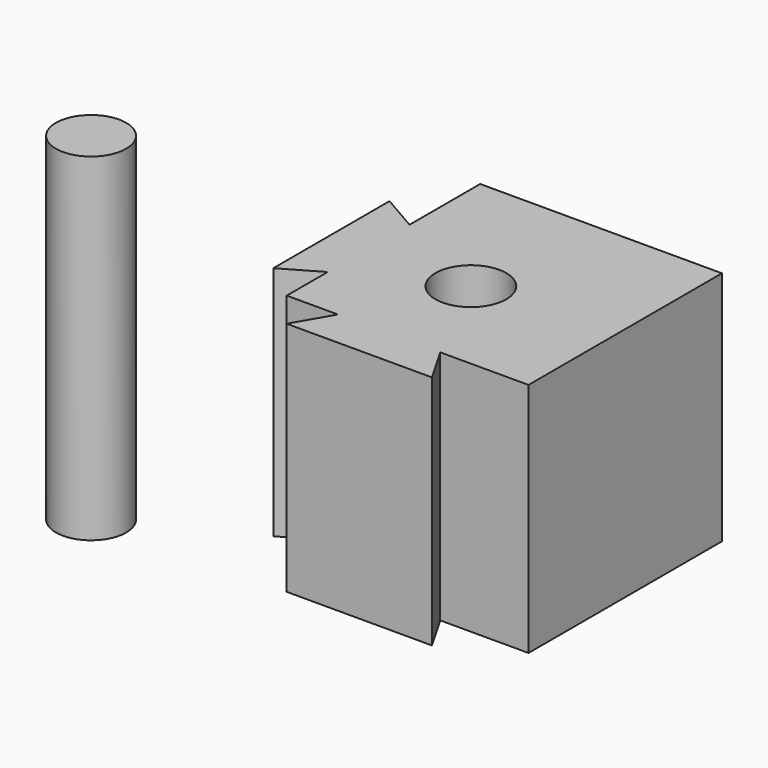
from build123d import *

# Parameters (mm, degrees)
F0_W     = 82.55
F0_H     = 82.55
F1_DEPTH = 69.85
F3_DEPTH = 69.85
F4_D     = 21
F5_R     = 10.4
F6_DEPTH = 100


with BuildPart() as f1:
    # F0 (on Top) → F1 (new body)
    with BuildSketch(Plane.XY):
        with Locations((41.275, 41.275)):
            Rectangle(F0_W, F0_H)
    extrude(amount=F1_DEPTH)

    # F2 (on face) → F3 (cut, through all)
    with BuildSketch(Plane.XY.offset(69.85)):
        Polygon((0, 62.775), (11, 56.4241470389), (11, 82.55), (0, 82.55), align=None)
        Polygon((11, 26.1258529611), (0, 19.775), (0, 0), (19.775, 0), (26.1258529611, 11), (11, 11), align=None)
        Polygon((82.55, 0), (82.55, 11), (56.4241470389, 11), (62.775, 0), align=None)
    extrude(amount=-F3_DEPTH, mode=Mode.SUBTRACT)

    # F4 (through all)
    with Locations(Plane(origin=(0, 0, 0), x_dir=(1, 0, 0), z_dir=(0, 0, -1))):
        with Locations((41.275, -41.275)):
            Hole(F4_D / 2)


with BuildPart() as f6:
    # F5 (on Top) → F6 (new body)
    with BuildSketch(Plane.XY):
        with Locations((-38.1078049541, 0)):
            Circle(F5_R)
    extrude(amount=F6_DEPTH)


solid = Compound([f1.part, f6.part])
